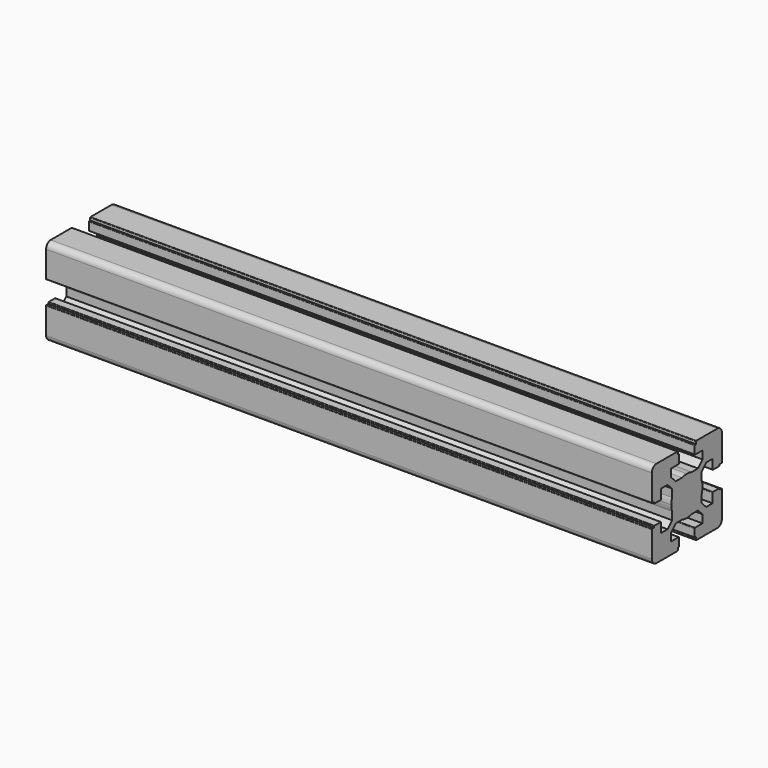
from build123d import *

# Parameters (mm, degrees)
F1_DEPTH = 311.15


with BuildPart() as f1:
    # F0 (on Right) → F1 (new body)
    with BuildSketch(Plane.YZ):
        with BuildLine():
            Line((-20.088481, -9.788837), (-20.088481, -10.288837))
            Line((-20.088481, -10.288837), (-21.28859, -10.288837))
            ThreePointArc((-21.28859, -10.288837), (-21.500722, -10.376705), (-21.58859, -10.588837))
            Line((-21.58859, -10.588837), (-21.58859, -23.988949))
            ThreePointArc((-21.58859, -23.988949), (-20.70991, -26.11027), (-18.58859, -26.988949))
            Line((-18.58859, -26.988949), (-5.188544, -26.988949))
            ThreePointArc((-5.188544, -26.988949), (-4.976411, -26.901081), (-4.888544, -26.688949))
            Line((-4.888544, -26.688949), (-4.888544, -25.488841))
            Line((-4.888544, -25.488841), (-4.388544, -25.488841))
            ThreePointArc((-4.388544, -25.488841), (-4.176411, -25.400973), (-4.088544, -25.188841))
            Line((-4.088544, -25.188841), (-4.088544, -21.288841))
            ThreePointArc((-4.088544, -21.288841), (-4.176411, -21.076709), (-4.388544, -20.988841))
            Line((-4.388544, -20.988841), (-9.138663, -20.988841))
            Line((-9.138663, -20.988841), (-9.138663, -16.881665))
            Line((-9.138663, -16.881665), (-6.245729, -13.988731))
            Line((-6.245729, -13.988731), (-2.211433, -13.988731))
            ThreePointArc((-2.211433, -13.988731), (-0.669869, -14.363044), (0.91149, -14.48887))
            Line((0.91149, -14.48887), (0.91149, -4.48887))
            Line((0.91149, -4.48887), (-9.08851, -4.48887))
            ThreePointArc((-9.08851, -4.48887), (-8.962684, -6.070229), (-8.588371, -7.611793))
            Line((-8.588371, -7.611793), (-8.588371, -11.646022))
            Line((-8.588371, -11.646022), (-11.481305, -14.538956))
            Line((-11.481305, -14.538956), (-15.588481, -14.538956))
            Line((-15.588481, -14.538956), (-15.588481, -9.788837))
            ThreePointArc((-15.588481, -9.788837), (-15.676349, -9.576705), (-15.888481, -9.488837))
            Line((-15.888481, -9.488837), (-19.788481, -9.488837))
            ThreePointArc((-19.788481, -9.488837), (-20.000613, -9.576705), (-20.088481, -9.788837))
        make_face()
        with BuildLine():
            ThreePointArc((-8.588371, -1.365947), (-8.962684, -2.907511), (-9.08851, -4.48887))
            Line((-9.08851, -4.48887), (0.91149, -4.48887))
            Line((0.91149, -4.48887), (0.91149, 5.51113))
            ThreePointArc((0.91149, 5.51113), (-0.669869, 5.385303), (-2.211433, 5.010991))
            Line((-2.211433, 5.010991), (-6.245729, 5.010991))
            Line((-6.245729, 5.010991), (-9.138663, 7.903925))
            Line((-9.138663, 7.903925), (-9.138663, 12.011101))
            Line((-9.138663, 12.011101), (-4.388544, 12.011101))
            ThreePointArc((-4.388544, 12.011101), (-4.176411, 12.098969), (-4.088544, 12.311101))
            Line((-4.088544, 12.311101), (-4.088544, 16.211101))
            ThreePointArc((-4.088544, 16.211101), (-4.176411, 16.423233), (-4.388544, 16.511101))
            Line((-4.388544, 16.511101), (-4.888544, 16.511101))
            Line((-4.888544, 16.511101), (-4.888544, 17.711209))
            ThreePointArc((-4.888544, 17.711209), (-4.976411, 17.923341), (-5.188544, 18.011209))
            Line((-5.188544, 18.011209), (-18.58859, 18.011209))
            ThreePointArc((-18.58859, 18.011209), (-20.70991, 17.13253), (-21.58859, 15.011209))
            Line((-21.58859, 15.011209), (-21.58859, 1.611097))
            ThreePointArc((-21.58859, 1.611097), (-21.500722, 1.398965), (-21.28859, 1.311097))
            Line((-21.28859, 1.311097), (-20.088481, 1.311097))
            Line((-20.088481, 1.311097), (-20.088481, 0.811097))
            ThreePointArc((-20.088481, 0.811097), (-20.000613, 0.598965), (-19.788481, 0.511097))
            Line((-19.788481, 0.511097), (-15.888481, 0.511097))
            ThreePointArc((-15.888481, 0.511097), (-15.676349, 0.598965), (-15.588481, 0.811097))
            Line((-15.588481, 0.811097), (-15.588481, 5.561216))
            Line((-15.588481, 5.561216), (-11.481305, 5.561216))
            Line((-11.481305, 5.561216), (-8.588371, 2.668282))
            Line((-8.588371, 2.668282), (-8.588371, -1.365947))
        make_face()
        with BuildLine():
            Line((0.91149, 5.51113), (0.91149, -4.48887))
            Line((0.91149, -4.48887), (10.91149, -4.48887))
            ThreePointArc((10.91149, -4.48887), (10.785663, -2.907511), (10.41135, -1.365947))
            Line((10.41135, -1.365947), (10.41135, 2.668282))
            Line((10.41135, 2.668282), (13.304285, 5.561216))
            Line((13.304285, 5.561216), (14.016842, 5.561216))
            Line((14.016842, 5.561216), (17.41146, 5.561216))
            Line((17.41146, 5.561216), (17.41146, 0.811097))
            ThreePointArc((17.41146, 0.811097), (17.499328, 0.598965), (17.71146, 0.511097))
            Line((17.71146, 0.511097), (21.61146, 0.511097))
            ThreePointArc((21.61146, 0.511097), (21.823593, 0.598965), (21.91146, 0.811097))
            Line((21.91146, 0.811097), (21.91146, 1.311097))
            Line((21.91146, 1.311097), (23.111569, 1.311097))
            ThreePointArc((23.111569, 1.311097), (23.323701, 1.398965), (23.411569, 1.611097))
            Line((23.411569, 1.611097), (23.411569, 15.011209))
            ThreePointArc((23.411569, 15.011209), (22.532889, 17.13253), (20.411569, 18.011209))
            Line((20.411569, 18.011209), (7.011523, 18.011209))
            ThreePointArc((7.011523, 18.011209), (6.799391, 17.923341), (6.711523, 17.711209))
            Line((6.711523, 17.711209), (6.711523, 16.511101))
            Line((6.711523, 16.511101), (6.211523, 16.511101))
            ThreePointArc((6.211523, 16.511101), (5.999391, 16.423233), (5.911523, 16.211101))
            Line((5.911523, 16.211101), (5.911523, 12.311101))
            ThreePointArc((5.911523, 12.311101), (5.999391, 12.098969), (6.211523, 12.011101))
            Line((6.211523, 12.011101), (10.961642, 12.011101))
            Line((10.961642, 12.011101), (10.961642, 7.903925))
            Line((10.961642, 7.903925), (8.068708, 5.010991))
            Line((8.068708, 5.010991), (4.034413, 5.010991))
            ThreePointArc((4.034413, 5.010991), (2.492849, 5.385303), (0.91149, 5.51113))
        make_face()
        with BuildLine():
            Line((10.91149, -4.48887), (0.91149, -4.48887))
            Line((0.91149, -4.48887), (0.91149, -14.48887))
            ThreePointArc((0.91149, -14.48887), (2.492849, -14.363044), (4.034413, -13.988731))
            Line((4.034413, -13.988731), (8.068708, -13.988731))
            Line((8.068708, -13.988731), (10.961642, -16.881665))
            Line((10.961642, -16.881665), (10.961642, -20.988841))
            Line((10.961642, -20.988841), (6.211523, -20.988841))
            ThreePointArc((6.211523, -20.988841), (5.999391, -21.076709), (5.911523, -21.288841))
            Line((5.911523, -21.288841), (5.911523, -25.188841))
            ThreePointArc((5.911523, -25.188841), (5.999391, -25.400973), (6.211523, -25.488841))
            Line((6.211523, -25.488841), (6.711523, -25.488841))
            Line((6.711523, -25.488841), (6.711523, -26.688949))
            ThreePointArc((6.711523, -26.688949), (6.799391, -26.901081), (7.011523, -26.988949))
            Line((7.011523, -26.988949), (20.411569, -26.988949))
            ThreePointArc((20.411569, -26.988949), (22.532889, -26.11027), (23.411569, -23.988949))
            Line((23.411569, -23.988949), (23.411569, -10.588837))
            ThreePointArc((23.411569, -10.588837), (23.323701, -10.376705), (23.111569, -10.288837))
            Line((23.111569, -10.288837), (21.91146, -10.288837))
            Line((21.91146, -10.288837), (21.91146, -9.788837))
            ThreePointArc((21.91146, -9.788837), (21.823593, -9.576705), (21.61146, -9.488837))
            Line((21.61146, -9.488837), (17.71146, -9.488837))
            ThreePointArc((17.71146, -9.488837), (17.499328, -9.576705), (17.41146, -9.788837))
            Line((17.41146, -9.788837), (17.41146, -14.538956))
            Line((17.41146, -14.538956), (13.304285, -14.538956))
            Line((13.304285, -14.538956), (10.41135, -11.646022))
            Line((10.41135, -11.646022), (10.41135, -7.611793))
            ThreePointArc((10.41135, -7.611793), (10.785663, -6.070229), (10.91149, -4.48887))
        make_face()
    extrude(amount=F1_DEPTH)


solid = f1.part
